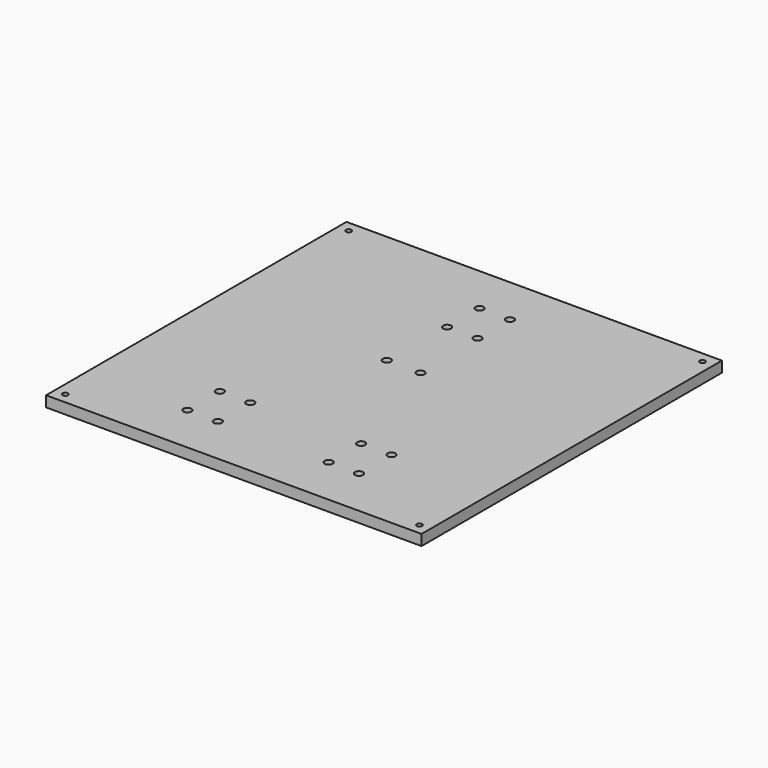
from build123d import *

# Parameters (mm, degrees)
F0_W     = 222.25
F0_H     = 222.25
F0_R     = 1.5875
F0_R_2   = 2.38125
F1_DEPTH = 6.35


with BuildPart() as f1:
    # F0 (on Top) → F1 (new body)
    with BuildSketch(Plane.XY):
        Rectangle(F0_W, F0_H)
        with Locations((-104.775, -104.775)):
            Circle(F0_R, mode=Mode.SUBTRACT)
        with Locations((-50.8, -81.94375)):
            Circle(F0_R_2, mode=Mode.SUBTRACT)
        with Locations((-32.8, -81.94375)):
            Circle(F0_R_2, mode=Mode.SUBTRACT)
        with Locations((-50.8, -57.94375)):
            Circle(F0_R_2, mode=Mode.SUBTRACT)
        with Locations((-32.8, -57.94375)):
            Circle(F0_R_2, mode=Mode.SUBTRACT)
        with Locations((32.8, -81.94375)):
            Circle(F0_R_2, mode=Mode.SUBTRACT)
        with Locations((50.8, -81.94375)):
            Circle(F0_R_2, mode=Mode.SUBTRACT)
        with Locations((32.8, -57.94375)):
            Circle(F0_R_2, mode=Mode.SUBTRACT)
        with Locations((50.8, -57.94375)):
            Circle(F0_R_2, mode=Mode.SUBTRACT)
        with Locations((104.775, -104.775)):
            Circle(F0_R, mode=Mode.SUBTRACT)
        with Locations((-10, 14.55625)):
            Circle(F0_R_2, mode=Mode.SUBTRACT)
        with Locations((-104.775, 104.775)):
            Circle(F0_R, mode=Mode.SUBTRACT)
        with Locations((-9, 57.94375)):
            Circle(F0_R_2, mode=Mode.SUBTRACT)
        with Locations((-9, 81.94375)):
            Circle(F0_R_2, mode=Mode.SUBTRACT)
        with Locations((10, 14.55625)):
            Circle(F0_R_2, mode=Mode.SUBTRACT)
        with Locations((9, 57.94375)):
            Circle(F0_R_2, mode=Mode.SUBTRACT)
        with Locations((9, 81.94375)):
            Circle(F0_R_2, mode=Mode.SUBTRACT)
        with Locations((104.775, 104.775)):
            Circle(F0_R, mode=Mode.SUBTRACT)
    extrude(amount=F1_DEPTH)


solid = f1.part
